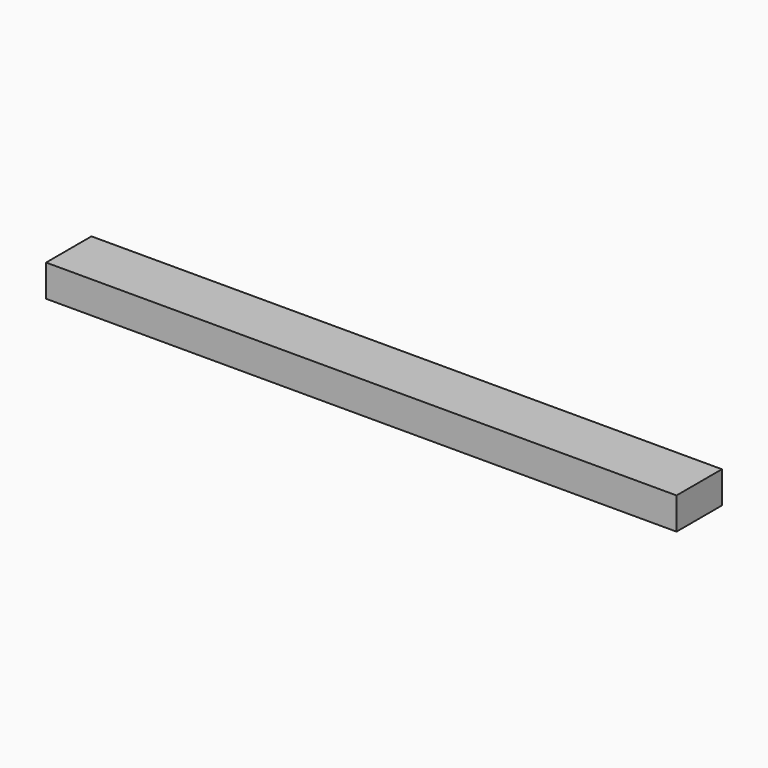
from build123d import *

# Parameters (mm, degrees)
SKETCH_W        = 177.8
SKETCH_H        = 16
PAD_DEPTH       = 9
BODY_ROLL_ANGLE = 90


with BuildPart() as part:
    # Sketch → Pad (new body)
    with BuildSketch(Plane.XZ):
        Rectangle(SKETCH_W, SKETCH_H)
    extrude(amount=PAD_DEPTH)


with BuildPart() as part_1:
    # Body roll: moved
    add(part.part.rotate(Axis((0, 0, 0), (1, 0, 0)), BODY_ROLL_ANGLE))


with BuildPart() as part_2:
    # Body placement: moved
    add(part_1.part.moved(Location((0, 0, -8))))


solid = part_2.part
